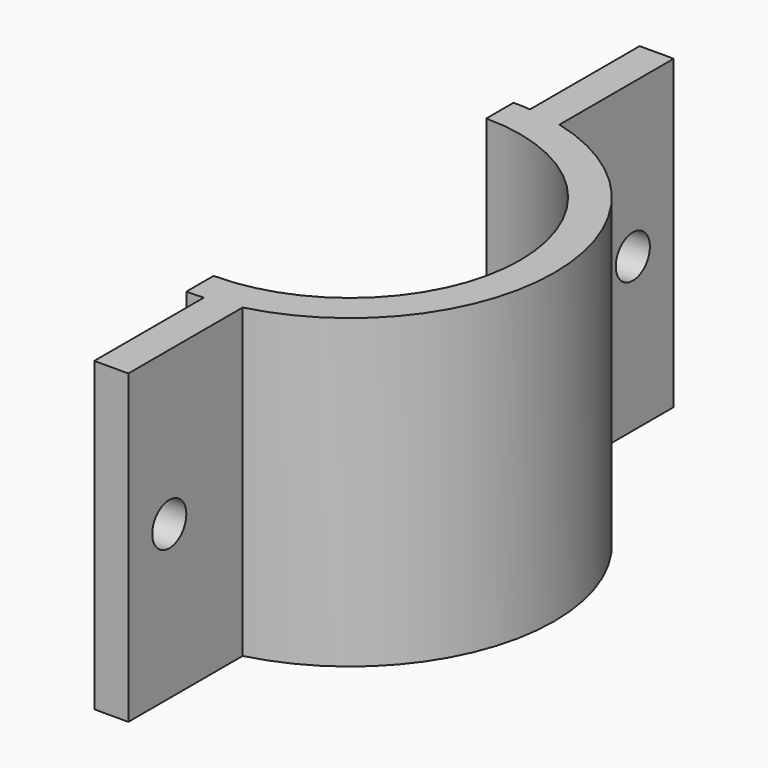
from build123d import *

# Parameters (mm, degrees)
F1_DEPTH = 114.3
F2_R     = 7.9375
F3_DEPTH = 19.051


with BuildPart() as f1:
    # F0 (on Top) → F1 (new body)
    with BuildSketch(Plane.XY):
        with BuildLine():
            ThreePointArc((0, 63.5), (63.5, 0), (0, -63.5))
            Line((0, -63.5), (0, -76.2))
            ThreePointArc((0, -76.2), (3.177764, -76.13371), (6.35, -75.934956))
            Line((6.35, -75.934956), (6.35, -127))
            Line((6.35, -127), (19.05, -127))
            Line((19.05, -127), (19.05, -73.780333))
            ThreePointArc((19.05, -73.780333), (76.2, 0), (19.05, 73.780333))
            Line((19.05, 73.780333), (19.05, 127))
            Line((19.05, 127), (6.35, 127))
            Line((6.35, 127), (6.35, 75.934956))
            ThreePointArc((6.35, 75.934956), (3.177764, 76.13371), (0, 76.2))
            Line((0, 76.2), (0, 63.5))
        make_face()
    extrude(amount=F1_DEPTH)

    # F2 (on face) → F3 (cut, through all)
    with BuildSketch(Plane.YZ.offset(19.05)):
        with Locations((-107.95, 57.15)):
            Circle(F2_R)
        with Locations((107.95, 57.15)):
            Circle(F2_R)
    extrude(amount=-F3_DEPTH, mode=Mode.SUBTRACT)


solid = f1.part
